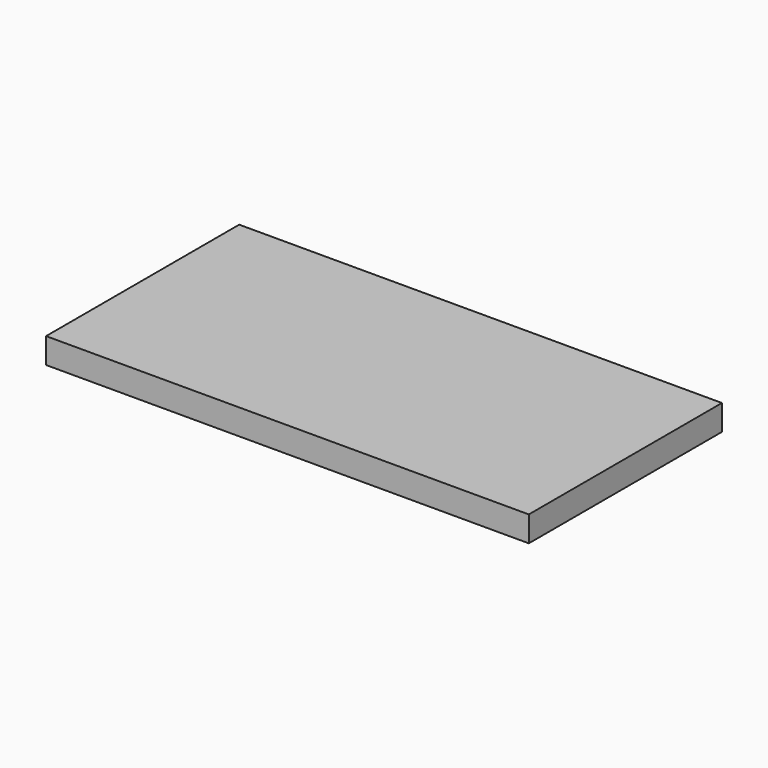
from build123d import *

# Parameters (mm, degrees)
F0_W      = 154
F0_H      = 77
F1_DEPTH  = 8.127
F3_R      = 1.25
F4_DEPTH  = 5
F5_R      = 1.25
F6_DEPTH  = 5
F7_R      = 1.25
F8_DEPTH  = 5
F9_R      = 1.25
F10_DEPTH = 5
F11_R     = 1.25
F12_DEPTH = 5
F13_R     = 1.25
F14_DEPTH = 5
F15_R     = 1.25
F16_DEPTH = 5
F17_R     = 1.25
F18_DEPTH = 5
F19_R     = 1.25
F20_DEPTH = 5
F21_R     = 1.25
F22_DEPTH = 5
F23_R     = 1.25
F24_DEPTH = 5
F25_R     = 1.25
F26_DEPTH = 5
F27_R     = 1.25
F28_DEPTH = 5
F29_R     = 1.25
F30_DEPTH = 5
F31_R     = 1.25
F32_DEPTH = 5
F33_R     = 1.25
F34_DEPTH = 5
F35_R     = 1.25
F36_DEPTH = 5
F37_R     = 1.25
F38_DEPTH = 5
F39_R     = 1.25
F40_DEPTH = 5
F41_R     = 1.25
F42_DEPTH = 5
F2_W      = 140
F2_H      = 67
F43_DEPTH = 5.127
F45_W     = 2
F45_H     = 67
F46_DEPTH = 0.254
F47_W     = 2
F47_H     = 67
F48_DEPTH = 0.254
F49_R     = 2.05
F50_DEPTH = 5
F51_R     = 2.05
F52_DEPTH = 5
F53_W     = 4.1
F53_H     = 2.304
F54_DEPTH = 5
F55_W     = 4.1
F55_H     = 2.304
F56_DEPTH = 5
F57_R     = 1.25
F58_DEPTH = 2.5
F44_W     = 2.5
F44_H     = 67
F59_DEPTH = 4.873
F60_W     = 2.5
F60_H     = 6.7
F61_DEPTH = 0.723


with BuildPart() as f1:
    # F0 (on Top) → F1 (new body)
    with BuildSketch(Plane.XY):
        with Locations((77, 38.5)):
            Rectangle(F0_W, F0_H)
    extrude(amount=F1_DEPTH)

    # F3 (on face) → F4 (cut)
    with BuildSketch(Plane(origin=(0, 0, 0), x_dir=(1, 0, 0), z_dir=(0, 0, -1))):
        with Locations((2.5, -2.5)):
            Circle(F3_R)
    extrude(amount=-F4_DEPTH, mode=Mode.SUBTRACT)

    # F5 (on face) → F6 (cut)
    with BuildSketch(Plane(origin=(0, 0, 0), x_dir=(1, 0, 0), z_dir=(0, 0, -1))):
        with Locations((2.5, -22)):
            Circle(F5_R)
    extrude(amount=-F6_DEPTH, mode=Mode.SUBTRACT)

    # F7 (on face) → F8 (cut)
    with BuildSketch(Plane(origin=(0, 0, 0), x_dir=(1, 0, 0), z_dir=(0, 0, -1))):
        with Locations((151.5, -2.5)):
            Circle(F7_R)
    extrude(amount=-F8_DEPTH, mode=Mode.SUBTRACT)

    # F9 (on face) → F10 (cut)
    with BuildSketch(Plane(origin=(0, 0, 0), x_dir=(1, 0, 0), z_dir=(0, 0, -1))):
        with Locations((151.5, -22)):
            Circle(F9_R)
    extrude(amount=-F10_DEPTH, mode=Mode.SUBTRACT)

    # F11 (on face) → F12 (cut)
    with BuildSketch(Plane(origin=(0, 0, 0), x_dir=(1, 0, 0), z_dir=(0, 0, -1))):
        with Locations((2.5, -38.5)):
            Circle(F11_R)
    extrude(amount=-F12_DEPTH, mode=Mode.SUBTRACT)

    # F13 (on face) → F14 (cut)
    with BuildSketch(Plane(origin=(0, 0, 0), x_dir=(1, 0, 0), z_dir=(0, 0, -1))):
        with Locations((151.5, -38.5)):
            Circle(F13_R)
    extrude(amount=-F14_DEPTH, mode=Mode.SUBTRACT)

    # F15 (on face) → F16 (cut)
    with BuildSketch(Plane(origin=(0, 0, 0), x_dir=(1, 0, 0), z_dir=(0, 0, -1))):
        with Locations((2.5, -55)):
            Circle(F15_R)
    extrude(amount=-F16_DEPTH, mode=Mode.SUBTRACT)

    # F17 (on face) → F18 (cut)
    with BuildSketch(Plane(origin=(0, 0, 0), x_dir=(1, 0, 0), z_dir=(0, 0, -1))):
        with Locations((151.5, -55)):
            Circle(F17_R)
    extrude(amount=-F18_DEPTH, mode=Mode.SUBTRACT)

    # F19 (on face) → F20 (cut)
    with BuildSketch(Plane(origin=(0, 0, 0), x_dir=(1, 0, 0), z_dir=(0, 0, -1))):
        with Locations((2.5, -74.5)):
            Circle(F19_R)
    extrude(amount=-F20_DEPTH, mode=Mode.SUBTRACT)

    # F21 (on face) → F22 (cut)
    with BuildSketch(Plane(origin=(0, 0, 0), x_dir=(1, 0, 0), z_dir=(0, 0, -1))):
        with Locations((151.5, -74.5)):
            Circle(F21_R)
    extrude(amount=-F22_DEPTH, mode=Mode.SUBTRACT)

    # F23 (on face) → F24 (cut)
    with BuildSketch(Plane(origin=(0, 0, 0), x_dir=(1, 0, 0), z_dir=(0, 0, -1))):
        with Locations((26.25, -2.5)):
            Circle(F23_R)
    extrude(amount=-F24_DEPTH, mode=Mode.SUBTRACT)

    # F25 (on face) → F26 (cut)
    with BuildSketch(Plane(origin=(0, 0, 0), x_dir=(1, 0, 0), z_dir=(0, 0, -1))):
        with Locations((26.25, -74.5)):
            Circle(F25_R)
    extrude(amount=-F26_DEPTH, mode=Mode.SUBTRACT)

    # F27 (on face) → F28 (cut)
    with BuildSketch(Plane(origin=(0, 0, 0), x_dir=(1, 0, 0), z_dir=(0, 0, -1))):
        with Locations((51.25, -2.5)):
            Circle(F27_R)
    extrude(amount=-F28_DEPTH, mode=Mode.SUBTRACT)

    # F29 (on face) → F30 (cut)
    with BuildSketch(Plane(origin=(0, 0, 0), x_dir=(1, 0, 0), z_dir=(0, 0, -1))):
        with Locations((76.25, -2.5)):
            Circle(F29_R)
    extrude(amount=-F30_DEPTH, mode=Mode.SUBTRACT)

    # F31 (on face) → F32 (cut)
    with BuildSketch(Plane(origin=(0, 0, 0), x_dir=(1, 0, 0), z_dir=(0, 0, -1))):
        with Locations((51.25, -74.5)):
            Circle(F31_R)
    extrude(amount=-F32_DEPTH, mode=Mode.SUBTRACT)

    # F33 (on face) → F34 (cut)
    with BuildSketch(Plane(origin=(0, 0, 0), x_dir=(1, 0, 0), z_dir=(0, 0, -1))):
        with Locations((101.25, -2.5)):
            Circle(F33_R)
    extrude(amount=-F34_DEPTH, mode=Mode.SUBTRACT)

    # F35 (on face) → F36 (cut)
    with BuildSketch(Plane(origin=(0, 0, 0), x_dir=(1, 0, 0), z_dir=(0, 0, -1))):
        with Locations((76.25, -74.5)):
            Circle(F35_R)
    extrude(amount=-F36_DEPTH, mode=Mode.SUBTRACT)

    # F37 (on face) → F38 (cut)
    with BuildSketch(Plane(origin=(0, 0, 0), x_dir=(1, 0, 0), z_dir=(0, 0, -1))):
        with Locations((126.25, -2.5)):
            Circle(F37_R)
    extrude(amount=-F38_DEPTH, mode=Mode.SUBTRACT)

    # F39 (on face) → F40 (cut)
    with BuildSketch(Plane(origin=(0, 0, 0), x_dir=(1, 0, 0), z_dir=(0, 0, -1))):
        with Locations((101.25, -74.5)):
            Circle(F39_R)
    extrude(amount=-F40_DEPTH, mode=Mode.SUBTRACT)

    # F41 (on face) → F42 (cut)
    with BuildSketch(Plane(origin=(0, 0, 0), x_dir=(1, 0, 0), z_dir=(0, 0, -1))):
        with Locations((126.25, -74.5)):
            Circle(F41_R)
    extrude(amount=-F42_DEPTH, mode=Mode.SUBTRACT)

    # F2 (on Top) → F43 (cut)
    with BuildSketch(Plane.XY):
        with Locations((77, 38.5)):
            Rectangle(F2_W, F2_H)
    extrude(amount=F43_DEPTH, mode=Mode.SUBTRACT)

    # F45 (on face) → F46 (cut)
    with BuildSketch(Plane(origin=(0, 0, 0), x_dir=(1, 0, 0), z_dir=(0, 0, -1))):
        with Locations((6, -38.5)):
            Rectangle(F45_W, F45_H)
    extrude(amount=-F46_DEPTH, mode=Mode.SUBTRACT)

    # F47 (on face) → F48 (cut)
    with BuildSketch(Plane(origin=(0, 0, 0), x_dir=(1, 0, 0), z_dir=(0, 0, -1))):
        with Locations((148, -38.5)):
            Rectangle(F47_W, F47_H)
    extrude(amount=-F48_DEPTH, mode=Mode.SUBTRACT)

    # F49 (on face) → F50 (cut)
    with BuildSketch(Plane(origin=(0, 77, 0), x_dir=(-1, 0, 0), z_dir=(0, 1, 0))):
        with Locations((-40.5, 2.304)):
            Circle(F49_R)
    extrude(amount=-F50_DEPTH, mode=Mode.SUBTRACT)

    # F51 (on face) → F52 (cut)
    with BuildSketch(Plane(origin=(0, 77, 0), x_dir=(-1, 0, 0), z_dir=(0, 1, 0))):
        with Locations((-113.5, 2.304)):
            Circle(F51_R)
    extrude(amount=-F52_DEPTH, mode=Mode.SUBTRACT)

    # F53 (on face) → F54 (cut)
    with BuildSketch(Plane(origin=(0, 77, 0), x_dir=(-1, 0, 0), z_dir=(0, 1, 0))):
        with Locations((-113.5, 1.152)):
            Rectangle(F53_W, F53_H)
    extrude(amount=-F54_DEPTH, mode=Mode.SUBTRACT)

    # F55 (on face) → F56 (cut)
    with BuildSketch(Plane(origin=(0, 77, 0), x_dir=(-1, 0, 0), z_dir=(0, 1, 0))):
        with Locations((-40.5, 1.152)):
            Rectangle(F55_W, F55_H)
    extrude(amount=-F56_DEPTH, mode=Mode.SUBTRACT)

    # F57 (on face) → F58 (cut)
    with BuildSketch(Plane(origin=(0, 77, 0), x_dir=(-1, 0, 0), z_dir=(0, 1, 0))):
        with Locations((-36.2, 6.604)):
            Circle(F57_R)
        with Locations((-44.8, 6.604)):
            Circle(F57_R)
        with Locations((-117.8, 6.604)):
            Circle(F57_R)
        with Locations((-109.2, 6.604)):
            Circle(F57_R)
    extrude(amount=-F58_DEPTH, mode=Mode.SUBTRACT)

    # F44 (on face) → F59 (join)
    with BuildSketch(Plane(origin=(0, 0, 5.127), x_dir=(1, 0, 0), z_dir=(0, 0, -1))):
        with Locations((77, -38.5)):
            Rectangle(F44_W, F44_H)
    extrude(amount=F59_DEPTH)

    # F60 (on face) → F61 (cut)
    with BuildSketch(Plane(origin=(0, 0, 0.254), x_dir=(1, 0, 0), z_dir=(0, 0, -1))):
        with Locations((77, -38.5)):
            Rectangle(F60_W, F60_H)
    extrude(amount=-F61_DEPTH, mode=Mode.SUBTRACT)


solid = f1.part
